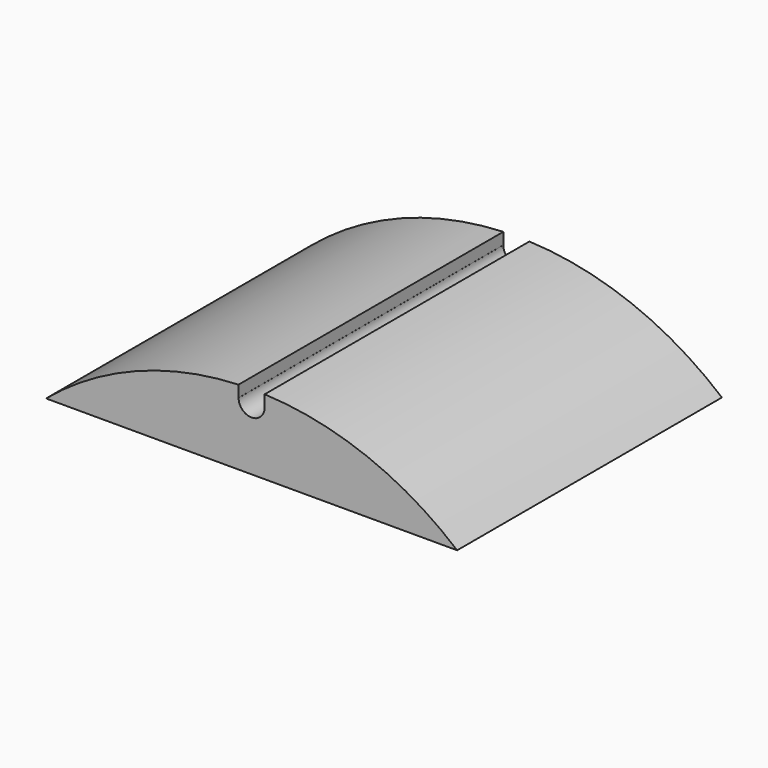
from build123d import *

# Parameters (mm, degrees)
F1_DEPTH = 76.2


with BuildPart() as f1:
    # F0 (on Front) → F1 (new body)
    with BuildSketch(Plane.XZ):
        with BuildLine():
            Line((-47.3245013075, 56.1975), (47.3245013075, 56.1975))
            ThreePointArc((47.3245013075, 56.1975), (26.591762849, 68.4882878953), (2.997208132, 73.408338584))
            Line((2.997208132, 73.408338584), (2.997208132, 70.7234999449))
            ThreePointArc((2.997208132, 70.7234999449), (-0.002791868, 67.7234999449), (-3.002791868, 70.7234999449))
            Line((-3.002791868, 70.7234999449), (-3.0169040135, 70.7234999449))
            Line((-3.0169040135, 70.7234999449), (-3.0169040135, 73.407531769))
            ThreePointArc((-3.0169040135, 73.407531769), (-26.6009505619, 68.4847198976), (-47.3245013075, 56.1975))
        make_face()
    extrude(amount=F1_DEPTH)


solid = f1.part
